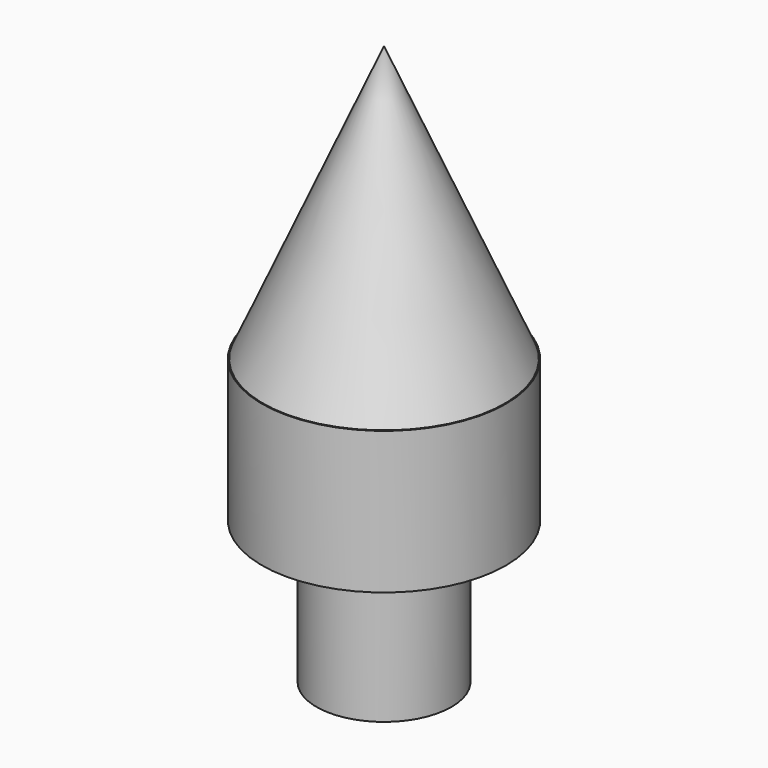
from build123d import *

# Parameters (mm, degrees)
F0_R      = 21.435
F0_R_2    = 19.35
F1_DEPTH  = 25
F4_R      = 19.35
F4_R_2    = 16.476684
F5_DEPTH  = 25
F6_R      = 11.862632
F7_DEPTH  = 25
F7_FACE_R = 11.862632
F8_DEPTH  = 25


with BuildPart() as f1:
    # F0 (on Top) → F1 (new body)
    with BuildSketch(Plane.XY):
        Circle(F0_R)
        Circle(F0_R_2, mode=Mode.SUBTRACT)
    extrude(amount=F1_DEPTH)

    # F2 (on Right) → F3 (revolve)
    with BuildSketch(Plane.YZ):
        Polygon((0, 73.372401), (-21.312717, 24.872396), (0, 25.872396), align=None)
    revolve(axis=Axis((0, 0, 6.186198), (0, 0, 1)))

    # F4 (on Top) → F5 (join)
    with BuildSketch(Plane.XY):
        Circle(F4_R)
        Circle(F4_R_2, mode=Mode.SUBTRACT)
    extrude(amount=F5_DEPTH)


with BuildPart() as f7:
    # F6 (on Top) → F7 (new body)
    with BuildSketch(Plane.XY):
        Circle(F6_R)
    extrude(amount=F7_DEPTH)

    # F7_face (on face) → F8 (join)
    with BuildSketch(Plane(origin=(0, 0, 0), x_dir=(1, 0, 0), z_dir=(0, 0, -1))):
        Circle(F7_FACE_R)
    extrude(amount=F8_DEPTH)


solid = Compound([f1.part, f7.part])
